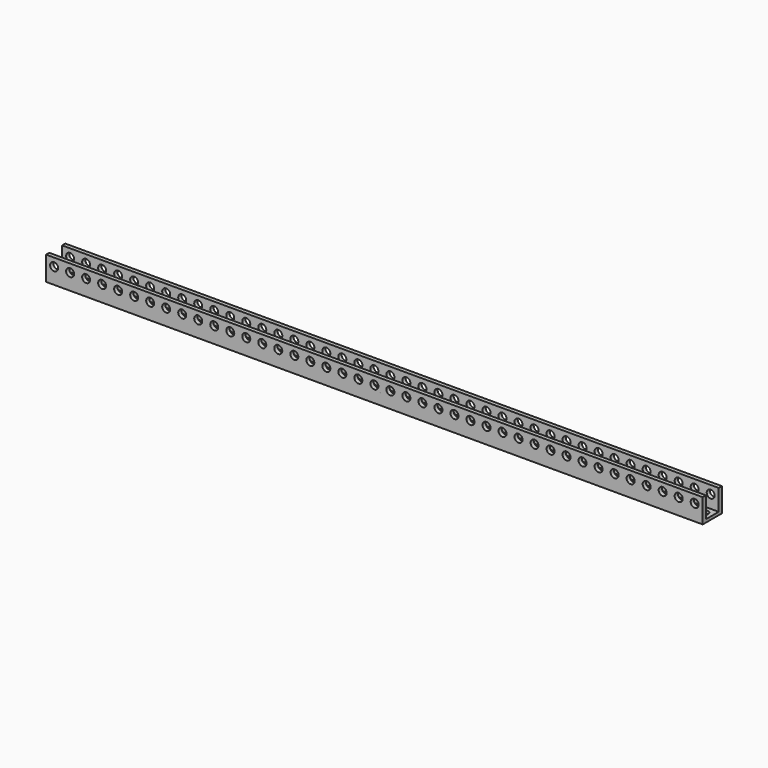
from build123d import *

# Parameters (mm, degrees)
F1_DEPTH  = 8
F2_DEPTH  = 16
F3_DEPTH  = 24
F4_DEPTH  = 32
F5_DEPTH  = 40
F6_DEPTH  = 48
F7_DEPTH  = 56
F8_DEPTH  = 64
F9_DEPTH  = 72
F10_DEPTH = 80
F11_DEPTH = 88
F12_DEPTH = 96
F13_DEPTH = 104
F14_DEPTH = 120
F15_DEPTH = 136
F16_DEPTH = 152
F17_DEPTH = 168
F18_DEPTH = 184
F19_DEPTH = 232
F20_DEPTH = 280
F21_DEPTH = 328
F22_R     = 2
F23_DEPTH = 12.001
F24_R     = 2
F25_DEPTH = 12.001


with BuildPart() as f1:
    # F0 (on Right) → F1 (new body)
    with BuildSketch(Plane.YZ):
        Polygon((0, 12), (0, 0), (12, 0), (12, 12), (10, 12), (10, 1.5), (2, 1.5), (2, 12), align=None)
    extrude(amount=F1_DEPTH)


with BuildPart() as f2:
    # F0 (on Right) → F2 (new body)
    with BuildSketch(Plane.YZ):
        Polygon((0, 12), (0, 0), (12, 0), (12, 12), (10, 12), (10, 1.5), (2, 1.5), (2, 12), align=None)
    extrude(amount=F2_DEPTH)


with BuildPart() as f3:
    # F0 (on Right) → F3 (new body)
    with BuildSketch(Plane.YZ):
        Polygon((0, 12), (0, 0), (12, 0), (12, 12), (10, 12), (10, 1.5), (2, 1.5), (2, 12), align=None)
    extrude(amount=F3_DEPTH)


with BuildPart() as f4:
    # F0 (on Right) → F4 (new body)
    with BuildSketch(Plane.YZ):
        Polygon((0, 12), (0, 0), (12, 0), (12, 12), (10, 12), (10, 1.5), (2, 1.5), (2, 12), align=None)
    extrude(amount=F4_DEPTH)


with BuildPart() as f5:
    # F0 (on Right) → F5 (new body)
    with BuildSketch(Plane.YZ):
        Polygon((0, 12), (0, 0), (12, 0), (12, 12), (10, 12), (10, 1.5), (2, 1.5), (2, 12), align=None)
    extrude(amount=F5_DEPTH)


with BuildPart() as f6:
    # F0 (on Right) → F6 (new body)
    with BuildSketch(Plane.YZ):
        Polygon((0, 12), (0, 0), (12, 0), (12, 12), (10, 12), (10, 1.5), (2, 1.5), (2, 12), align=None)
    extrude(amount=F6_DEPTH)


with BuildPart() as f7:
    # F0 (on Right) → F7 (new body)
    with BuildSketch(Plane.YZ):
        Polygon((0, 12), (0, 0), (12, 0), (12, 12), (10, 12), (10, 1.5), (2, 1.5), (2, 12), align=None)
    extrude(amount=F7_DEPTH)


with BuildPart() as f8:
    # F0 (on Right) → F8 (new body)
    with BuildSketch(Plane.YZ):
        Polygon((0, 12), (0, 0), (12, 0), (12, 12), (10, 12), (10, 1.5), (2, 1.5), (2, 12), align=None)
    extrude(amount=F8_DEPTH)


with BuildPart() as f9:
    # F0 (on Right) → F9 (new body)
    with BuildSketch(Plane.YZ):
        Polygon((0, 12), (0, 0), (12, 0), (12, 12), (10, 12), (10, 1.5), (2, 1.5), (2, 12), align=None)
    extrude(amount=F9_DEPTH)


with BuildPart() as f10:
    # F0 (on Right) → F10 (new body)
    with BuildSketch(Plane.YZ):
        Polygon((0, 12), (0, 0), (12, 0), (12, 12), (10, 12), (10, 1.5), (2, 1.5), (2, 12), align=None)
    extrude(amount=F10_DEPTH)


with BuildPart() as f11:
    # F0 (on Right) → F11 (new body)
    with BuildSketch(Plane.YZ):
        Polygon((0, 12), (0, 0), (12, 0), (12, 12), (10, 12), (10, 1.5), (2, 1.5), (2, 12), align=None)
    extrude(amount=F11_DEPTH)


with BuildPart() as f12:
    # F0 (on Right) → F12 (new body)
    with BuildSketch(Plane.YZ):
        Polygon((0, 12), (0, 0), (12, 0), (12, 12), (10, 12), (10, 1.5), (2, 1.5), (2, 12), align=None)
    extrude(amount=F12_DEPTH)


with BuildPart() as f13:
    # F0 (on Right) → F13 (new body)
    with BuildSketch(Plane.YZ):
        Polygon((0, 12), (0, 0), (12, 0), (12, 12), (10, 12), (10, 1.5), (2, 1.5), (2, 12), align=None)
    extrude(amount=F13_DEPTH)


with BuildPart() as f14:
    # F0 (on Right) → F14 (new body)
    with BuildSketch(Plane.YZ):
        Polygon((0, 12), (0, 0), (12, 0), (12, 12), (10, 12), (10, 1.5), (2, 1.5), (2, 12), align=None)
    extrude(amount=F14_DEPTH)


with BuildPart() as f15:
    # F0 (on Right) → F15 (new body)
    with BuildSketch(Plane.YZ):
        Polygon((0, 12), (0, 0), (12, 0), (12, 12), (10, 12), (10, 1.5), (2, 1.5), (2, 12), align=None)
    extrude(amount=F15_DEPTH)


with BuildPart() as f16:
    # F0 (on Right) → F16 (new body)
    with BuildSketch(Plane.YZ):
        Polygon((0, 12), (0, 0), (12, 0), (12, 12), (10, 12), (10, 1.5), (2, 1.5), (2, 12), align=None)
    extrude(amount=F16_DEPTH)


with BuildPart() as f17:
    # F0 (on Right) → F17 (new body)
    with BuildSketch(Plane.YZ):
        Polygon((0, 12), (0, 0), (12, 0), (12, 12), (10, 12), (10, 1.5), (2, 1.5), (2, 12), align=None)
    extrude(amount=F17_DEPTH)


with BuildPart() as f18:
    # F0 (on Right) → F18 (new body)
    with BuildSketch(Plane.YZ):
        Polygon((0, 12), (0, 0), (12, 0), (12, 12), (10, 12), (10, 1.5), (2, 1.5), (2, 12), align=None)
    extrude(amount=F18_DEPTH)


with BuildPart() as f19:
    # F0 (on Right) → F19 (new body)
    with BuildSketch(Plane.YZ):
        Polygon((0, 12), (0, 0), (12, 0), (12, 12), (10, 12), (10, 1.5), (2, 1.5), (2, 12), align=None)
    extrude(amount=F19_DEPTH)


with BuildPart() as f20:
    # F0 (on Right) → F20 (new body)
    with BuildSketch(Plane.YZ):
        Polygon((0, 12), (0, 0), (12, 0), (12, 12), (10, 12), (10, 1.5), (2, 1.5), (2, 12), align=None)
    extrude(amount=F20_DEPTH)


with BuildPart() as f21:
    # F0 (on Right) → F21 (new body)
    with BuildSketch(Plane.YZ):
        Polygon((0, 12), (0, 0), (12, 0), (12, 12), (10, 12), (10, 1.5), (2, 1.5), (2, 12), align=None)
    extrude(amount=F21_DEPTH)


with BuildPart() as f23_tool:
    # F22 (on Front) → F23 (new body, through all)
    with BuildSketch(Plane.XZ):
        with Locations((4, 8)):
            Circle(F22_R)
        with Locations((12, 8)):
            Circle(F22_R)
        with Locations((20, 8)):
            Circle(F22_R)
        with Locations((28, 8)):
            Circle(F22_R)
        with Locations((36, 8)):
            Circle(F22_R)
        with Locations((44, 8)):
            Circle(F22_R)
        with Locations((52, 8)):
            Circle(F22_R)
        with Locations((60, 8)):
            Circle(F22_R)
        with Locations((68, 8)):
            Circle(F22_R)
        with Locations((76, 8)):
            Circle(F22_R)
        with Locations((84, 8)):
            Circle(F22_R)
        with Locations((92, 8)):
            Circle(F22_R)
        with Locations((100, 8)):
            Circle(F22_R)
        with Locations((108, 8)):
            Circle(F22_R)
        with Locations((116, 8)):
            Circle(F22_R)
        with Locations((124, 8)):
            Circle(F22_R)
        with Locations((132, 8)):
            Circle(F22_R)
        with Locations((140, 8)):
            Circle(F22_R)
        with Locations((148, 8)):
            Circle(F22_R)
        with Locations((156, 8)):
            Circle(F22_R)
        with Locations((164, 8)):
            Circle(F22_R)
        with Locations((172, 8)):
            Circle(F22_R)
        with Locations((180, 8)):
            Circle(F22_R)
        with Locations((188, 8)):
            Circle(F22_R)
        with Locations((196, 8)):
            Circle(F22_R)
        with Locations((204, 8)):
            Circle(F22_R)
        with Locations((212, 8)):
            Circle(F22_R)
        with Locations((220, 8)):
            Circle(F22_R)
        with Locations((228, 8)):
            Circle(F22_R)
        with Locations((236, 8)):
            Circle(F22_R)
        with Locations((244, 8)):
            Circle(F22_R)
        with Locations((252, 8)):
            Circle(F22_R)
        with Locations((260, 8)):
            Circle(F22_R)
        with Locations((268, 8)):
            Circle(F22_R)
        with Locations((276, 8)):
            Circle(F22_R)
        with Locations((284, 8)):
            Circle(F22_R)
        with Locations((292, 8)):
            Circle(F22_R)
        with Locations((300, 8)):
            Circle(F22_R)
        with Locations((308, 8)):
            Circle(F22_R)
        with Locations((316, 8)):
            Circle(F22_R)
        with Locations((324, 8)):
            Circle(F22_R)
    extrude(amount=-F23_DEPTH)


with BuildPart() as f1_1:
    add(f1.part)

    # F23: cut by f23_tool
    add(f23_tool.part, mode=Mode.SUBTRACT)


with BuildPart() as f2_1:
    add(f2.part)

    # F23: cut by f23_tool
    add(f23_tool.part, mode=Mode.SUBTRACT)


with BuildPart() as f3_1:
    add(f3.part)

    # F23: cut by f23_tool
    add(f23_tool.part, mode=Mode.SUBTRACT)


with BuildPart() as f4_1:
    add(f4.part)

    # F23: cut by f23_tool
    add(f23_tool.part, mode=Mode.SUBTRACT)


with BuildPart() as f5_1:
    add(f5.part)

    # F23: cut by f23_tool
    add(f23_tool.part, mode=Mode.SUBTRACT)


with BuildPart() as f6_1:
    add(f6.part)

    # F23: cut by f23_tool
    add(f23_tool.part, mode=Mode.SUBTRACT)


with BuildPart() as f7_1:
    add(f7.part)

    # F23: cut by f23_tool
    add(f23_tool.part, mode=Mode.SUBTRACT)


with BuildPart() as f8_1:
    add(f8.part)

    # F23: cut by f23_tool
    add(f23_tool.part, mode=Mode.SUBTRACT)


with BuildPart() as f9_1:
    add(f9.part)

    # F23: cut by f23_tool
    add(f23_tool.part, mode=Mode.SUBTRACT)


with BuildPart() as f10_1:
    add(f10.part)

    # F23: cut by f23_tool
    add(f23_tool.part, mode=Mode.SUBTRACT)


with BuildPart() as f11_1:
    add(f11.part)

    # F23: cut by f23_tool
    add(f23_tool.part, mode=Mode.SUBTRACT)


with BuildPart() as f12_1:
    add(f12.part)

    # F23: cut by f23_tool
    add(f23_tool.part, mode=Mode.SUBTRACT)


with BuildPart() as f13_1:
    add(f13.part)

    # F23: cut by f23_tool
    add(f23_tool.part, mode=Mode.SUBTRACT)


with BuildPart() as f14_1:
    add(f14.part)

    # F23: cut by f23_tool
    add(f23_tool.part, mode=Mode.SUBTRACT)


with BuildPart() as f15_1:
    add(f15.part)

    # F23: cut by f23_tool
    add(f23_tool.part, mode=Mode.SUBTRACT)


with BuildPart() as f16_1:
    add(f16.part)

    # F23: cut by f23_tool
    add(f23_tool.part, mode=Mode.SUBTRACT)


with BuildPart() as f17_1:
    add(f17.part)

    # F23: cut by f23_tool
    add(f23_tool.part, mode=Mode.SUBTRACT)


with BuildPart() as f18_1:
    add(f18.part)

    # F23: cut by f23_tool
    add(f23_tool.part, mode=Mode.SUBTRACT)


with BuildPart() as f19_1:
    add(f19.part)

    # F23: cut by f23_tool
    add(f23_tool.part, mode=Mode.SUBTRACT)


with BuildPart() as f20_1:
    add(f20.part)

    # F23: cut by f23_tool
    add(f23_tool.part, mode=Mode.SUBTRACT)


with BuildPart() as f21_1:
    add(f21.part)

    # F23: cut by f23_tool
    add(f23_tool.part, mode=Mode.SUBTRACT)


with BuildPart() as f25_tool:
    # F24 (on Top) → F25 (new body, through all)
    with BuildSketch(Plane.XY):
        with Locations((4, 6)):
            Circle(F24_R)
        with Locations((12, 6)):
            Circle(F24_R)
        with Locations((20, 6)):
            Circle(F24_R)
        with Locations((28, 6)):
            Circle(F24_R)
        with Locations((36, 6)):
            Circle(F24_R)
        with Locations((44, 6)):
            Circle(F24_R)
        with Locations((52, 6)):
            Circle(F24_R)
        with Locations((60, 6)):
            Circle(F24_R)
        with Locations((68, 6)):
            Circle(F24_R)
        with Locations((76, 6)):
            Circle(F24_R)
        with Locations((84, 6)):
            Circle(F24_R)
        with Locations((92, 6)):
            Circle(F24_R)
        with Locations((100, 6)):
            Circle(F24_R)
        with Locations((108, 6)):
            Circle(F24_R)
        with Locations((116, 6)):
            Circle(F24_R)
        with Locations((124, 6)):
            Circle(F24_R)
        with Locations((132, 6)):
            Circle(F24_R)
        with Locations((140, 6)):
            Circle(F24_R)
        with Locations((148, 6)):
            Circle(F24_R)
        with Locations((156, 6)):
            Circle(F24_R)
        with Locations((164, 6)):
            Circle(F24_R)
        with Locations((172, 6)):
            Circle(F24_R)
        with Locations((180, 6)):
            Circle(F24_R)
        with Locations((188, 6)):
            Circle(F24_R)
        with Locations((196, 6)):
            Circle(F24_R)
        with Locations((204, 6)):
            Circle(F24_R)
        with Locations((212, 6)):
            Circle(F24_R)
        with Locations((220, 6)):
            Circle(F24_R)
        with Locations((228, 6)):
            Circle(F24_R)
        with Locations((236, 6)):
            Circle(F24_R)
        with Locations((244, 6)):
            Circle(F24_R)
        with Locations((252, 6)):
            Circle(F24_R)
        with Locations((260, 6)):
            Circle(F24_R)
        with Locations((268, 6)):
            Circle(F24_R)
        with Locations((276, 6)):
            Circle(F24_R)
        with Locations((284, 6)):
            Circle(F24_R)
        with Locations((292, 6)):
            Circle(F24_R)
        with Locations((300, 6)):
            Circle(F24_R)
        with Locations((308, 6)):
            Circle(F24_R)
        with Locations((316, 6)):
            Circle(F24_R)
        with Locations((324, 6)):
            Circle(F24_R)
    extrude(amount=F25_DEPTH)


with BuildPart() as f1_2:
    add(f1_1.part)

    # F25: cut by f25_tool
    add(f25_tool.part, mode=Mode.SUBTRACT)


with BuildPart() as f2_2:
    add(f2_1.part)

    # F25: cut by f25_tool
    add(f25_tool.part, mode=Mode.SUBTRACT)


with BuildPart() as f3_2:
    add(f3_1.part)

    # F25: cut by f25_tool
    add(f25_tool.part, mode=Mode.SUBTRACT)


with BuildPart() as f4_2:
    add(f4_1.part)

    # F25: cut by f25_tool
    add(f25_tool.part, mode=Mode.SUBTRACT)


with BuildPart() as f5_2:
    add(f5_1.part)

    # F25: cut by f25_tool
    add(f25_tool.part, mode=Mode.SUBTRACT)


with BuildPart() as f6_2:
    add(f6_1.part)

    # F25: cut by f25_tool
    add(f25_tool.part, mode=Mode.SUBTRACT)


with BuildPart() as f7_2:
    add(f7_1.part)

    # F25: cut by f25_tool
    add(f25_tool.part, mode=Mode.SUBTRACT)


with BuildPart() as f8_2:
    add(f8_1.part)

    # F25: cut by f25_tool
    add(f25_tool.part, mode=Mode.SUBTRACT)


with BuildPart() as f9_2:
    add(f9_1.part)

    # F25: cut by f25_tool
    add(f25_tool.part, mode=Mode.SUBTRACT)


with BuildPart() as f10_2:
    add(f10_1.part)

    # F25: cut by f25_tool
    add(f25_tool.part, mode=Mode.SUBTRACT)


with BuildPart() as f11_2:
    add(f11_1.part)

    # F25: cut by f25_tool
    add(f25_tool.part, mode=Mode.SUBTRACT)


with BuildPart() as f12_2:
    add(f12_1.part)

    # F25: cut by f25_tool
    add(f25_tool.part, mode=Mode.SUBTRACT)


with BuildPart() as f13_2:
    add(f13_1.part)

    # F25: cut by f25_tool
    add(f25_tool.part, mode=Mode.SUBTRACT)


with BuildPart() as f14_2:
    add(f14_1.part)

    # F25: cut by f25_tool
    add(f25_tool.part, mode=Mode.SUBTRACT)


with BuildPart() as f15_2:
    add(f15_1.part)

    # F25: cut by f25_tool
    add(f25_tool.part, mode=Mode.SUBTRACT)


with BuildPart() as f16_2:
    add(f16_1.part)

    # F25: cut by f25_tool
    add(f25_tool.part, mode=Mode.SUBTRACT)


with BuildPart() as f17_2:
    add(f17_1.part)

    # F25: cut by f25_tool
    add(f25_tool.part, mode=Mode.SUBTRACT)


with BuildPart() as f18_2:
    add(f18_1.part)

    # F25: cut by f25_tool
    add(f25_tool.part, mode=Mode.SUBTRACT)


with BuildPart() as f19_2:
    add(f19_1.part)

    # F25: cut by f25_tool
    add(f25_tool.part, mode=Mode.SUBTRACT)


with BuildPart() as f20_2:
    add(f20_1.part)

    # F25: cut by f25_tool
    add(f25_tool.part, mode=Mode.SUBTRACT)


with BuildPart() as f21_2:
    add(f21_1.part)

    # F25: cut by f25_tool
    add(f25_tool.part, mode=Mode.SUBTRACT)


solid = Compound([f1_2.part, f2_2.part, f3_2.part, f4_2.part, f5_2.part, f6_2.part, f7_2.part, f8_2.part, f9_2.part, f10_2.part, f11_2.part, f12_2.part, f13_2.part, f14_2.part, f15_2.part, f16_2.part, f17_2.part, f18_2.part, f19_2.part, f20_2.part, f21_2.part])
